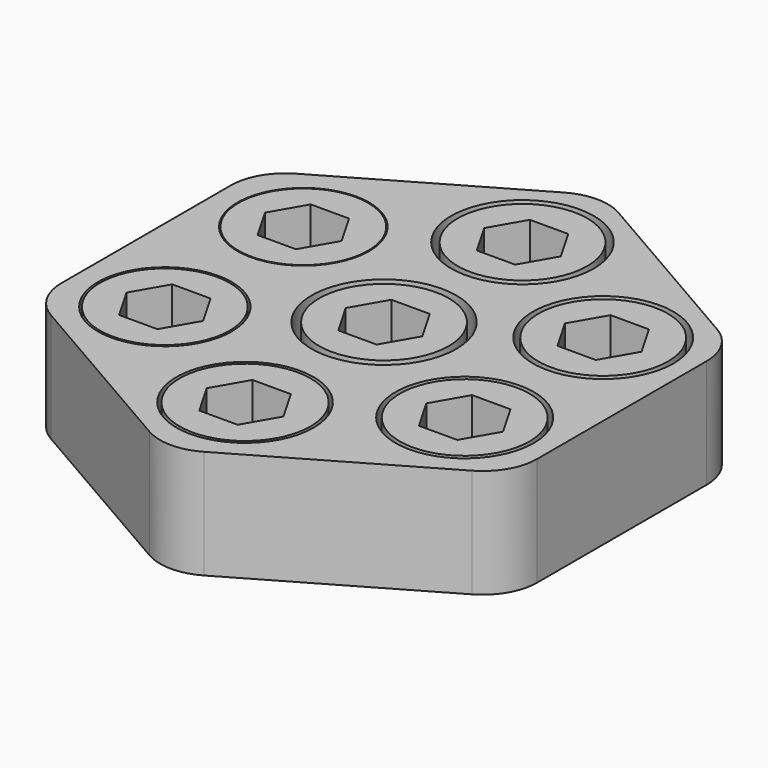
from build123d import *

# Parameters (mm, degrees)
F2_R      = 6.15
F2_R_2    = 6.3
F2_R_3    = 6.35
F2_R_4    = 6.05
F2_R_5    = 6.65
F2_R_6    = 6.45
F2_R_7    = 6.55
F3_DEPTH  = 10
F4_R      = 5
F2_R_8    = 5.95
F5_DEPTH  = 10
F6_DEPTH  = 4
F7_DEPTH  = 10
F8_DEPTH  = 4
F2_R_9    = 6
F9_DEPTH  = 10
F10_DEPTH = 4
F11_DEPTH = 10
F12_DEPTH = 4
F13_DEPTH = 10
F14_DEPTH = 4
F15_DEPTH = 10
F16_DEPTH = 4
F17_DEPTH = 10
F18_DEPTH = 4


with BuildPart() as f3:
    # F2 (on Top) → F3 (new body)
    with BuildSketch(Plane.XY):
        Polygon((21.85, -12.6151033818), (21.85, 12.6151033818), (0, 25.2302067636), (-21.85, 12.6151033818), (-21.85, -12.6151033818), (0, -25.2302067636), align=None)
        with Locations((-13.7698039202, -7.95)):
            Circle(F2_R, mode=Mode.SUBTRACT)
        with Locations((0, -15.95)):
            Circle(F2_R_2, mode=Mode.SUBTRACT)
        with Locations((13.7698039202, -7.95)):
            Circle(F2_R_3, mode=Mode.SUBTRACT)
        with Locations((-13.7698039202, 7.95)):
            Circle(F2_R_4, mode=Mode.SUBTRACT)
        Circle(F2_R_5, mode=Mode.SUBTRACT)
        with Locations((13.7698039202, 7.95)):
            Circle(F2_R_6, mode=Mode.SUBTRACT)
        with Locations((0, 15.9)):
            Circle(F2_R_7, mode=Mode.SUBTRACT)
    extrude(amount=F3_DEPTH)

    # F4
    f4_edges = [f3.edges().sort_by_distance(p)[0] for p in [
        (-21.85, 12.615103, 5),
        (-21.85, -12.615103, 5),
        (0, -25.230207, 5),
        (0, 25.230207, 5),
        (21.85, -12.615103, 5),
        (21.85, 12.615103, 5),
    ]]
    fillet(f4_edges, radius=F4_R)


with BuildPart() as f5:
    # F2 (on Top) → F5 (new body)
    with BuildSketch(Plane.XY):
        with Locations((-13.7698039202, 7.95)):
            Circle(F2_R_8)
        Polygon((-15.5307222412, 11), (-12.0088855991, 11), (-10.2479672781, 7.95), (-12.0088855991, 4.9), (-15.5307222412, 4.9), (-17.2916405622, 7.95), align=None, mode=Mode.SUBTRACT)
    extrude(amount=F5_DEPTH)

    # F2 (on Top) → F6 (join)
    with BuildSketch(Plane.XY):
        Polygon((-10.2479672781, 7.95), (-12.0088855991, 11), (-15.5307222412, 11), (-17.2916405622, 7.95), (-15.5307222412, 4.9), (-12.0088855991, 4.9), align=None)
    extrude(amount=F6_DEPTH)


with BuildPart() as f7:
    # F2 (on Top) → F7 (new body)
    with BuildSketch(Plane.XY):
        with Locations((-13.7698039202, -7.95)):
            Circle(F2_R_8)
        Polygon((-15.5307222412, -4.9), (-12.0088855991, -4.9), (-10.2479672781, -7.95), (-12.0088855991, -11), (-15.5307222412, -11), (-17.2916405622, -7.95), align=None, mode=Mode.SUBTRACT)
    extrude(amount=F7_DEPTH)

    # F2 (on Top) → F8 (join)
    with BuildSketch(Plane.XY):
        Polygon((-10.2479672781, -7.95), (-12.0088855991, -4.9), (-15.5307222412, -4.9), (-17.2916405622, -7.95), (-15.5307222412, -11), (-12.0088855991, -11), align=None)
    extrude(amount=F8_DEPTH)


with BuildPart() as f9:
    # F2 (on Top) → F9 (new body)
    with BuildSketch(Plane.XY):
        with Locations((0, -15.95)):
            Circle(F2_R_9)
        Polygon((-1.760918321, -12.9), (1.760918321, -12.9), (3.5218366421, -15.95), (1.760918321, -19), (-1.760918321, -19), (-3.5218366421, -15.95), align=None, mode=Mode.SUBTRACT)
    extrude(amount=F9_DEPTH)

    # F2 (on Top) → F10 (join)
    with BuildSketch(Plane.XY):
        Polygon((3.5218366421, -15.95), (1.760918321, -12.9), (-1.760918321, -12.9), (-3.5218366421, -15.95), (-1.760918321, -19), (1.760918321, -19), align=None)
    extrude(amount=F10_DEPTH)


with BuildPart() as f11:
    # F2 (on Top) → F11 (new body)
    with BuildSketch(Plane.XY):
        with Locations((13.7698039202, -7.95)):
            Circle(F2_R_8)
        Polygon((12.0088855991, -4.9), (15.5307222412, -4.9), (17.2916405622, -7.95), (15.5307222412, -11), (12.0088855991, -11), (10.2479672781, -7.95), align=None, mode=Mode.SUBTRACT)
    extrude(amount=F11_DEPTH)

    # F2 (on Top) → F12 (join)
    with BuildSketch(Plane.XY):
        Polygon((17.2916405622, -7.95), (15.5307222412, -4.9), (12.0088855991, -4.9), (10.2479672781, -7.95), (12.0088855991, -11), (15.5307222412, -11), align=None)
    extrude(amount=F12_DEPTH)


with BuildPart() as f13:
    # F2 (on Top) → F13 (new body)
    with BuildSketch(Plane.XY):
        with Locations((13.7698039202, 7.95)):
            Circle(F2_R_8)
        Polygon((12.0088855991, 11), (15.5307222412, 11), (17.2916405622, 7.95), (15.5307222412, 4.9), (12.0088855991, 4.9), (10.2479672781, 7.95), align=None, mode=Mode.SUBTRACT)
    extrude(amount=F13_DEPTH)

    # F2 (on Top) → F14 (join)
    with BuildSketch(Plane.XY):
        Polygon((17.2916405622, 7.95), (15.5307222412, 11), (12.0088855991, 11), (10.2479672781, 7.95), (12.0088855991, 4.9), (15.5307222412, 4.9), align=None)
    extrude(amount=F14_DEPTH)


with BuildPart() as f15:
    # F2 (on Top) → F15 (new body)
    with BuildSketch(Plane.XY):
        with Locations((0, 15.9)):
            Circle(F2_R_8)
        Polygon((-1.760918321, 18.95), (1.760918321, 18.95), (3.5218366421, 15.9), (1.760918321, 12.85), (-1.760918321, 12.85), (-3.5218366421, 15.9), align=None, mode=Mode.SUBTRACT)
    extrude(amount=F15_DEPTH)

    # F2 (on Top) → F16 (join)
    with BuildSketch(Plane.XY):
        Polygon((3.5218366421, 15.9), (1.760918321, 18.95), (-1.760918321, 18.95), (-3.5218366421, 15.9), (-1.760918321, 12.85), (1.760918321, 12.85), align=None)
    extrude(amount=F16_DEPTH)


with BuildPart() as f17:
    # F2 (on Top) → F17 (new body)
    with BuildSketch(Plane.XY):
        Circle(F2_R_8)
        Polygon((-1.760918321, 3.05), (1.760918321, 3.05), (3.5218366421, 0), (1.760918321, -3.05), (-1.760918321, -3.05), (-3.5218366421, 0), align=None, mode=Mode.SUBTRACT)
    extrude(amount=F17_DEPTH)

    # F2 (on Top) → F18 (join)
    with BuildSketch(Plane.XY):
        Polygon((3.5218366421, 0), (1.760918321, 3.05), (-1.760918321, 3.05), (-3.5218366421, 0), (-1.760918321, -3.05), (1.760918321, -3.05), align=None)
    extrude(amount=F18_DEPTH)


solid = Compound([f3.part, f5.part, f7.part, f9.part, f11.part, f13.part, f15.part, f17.part])
